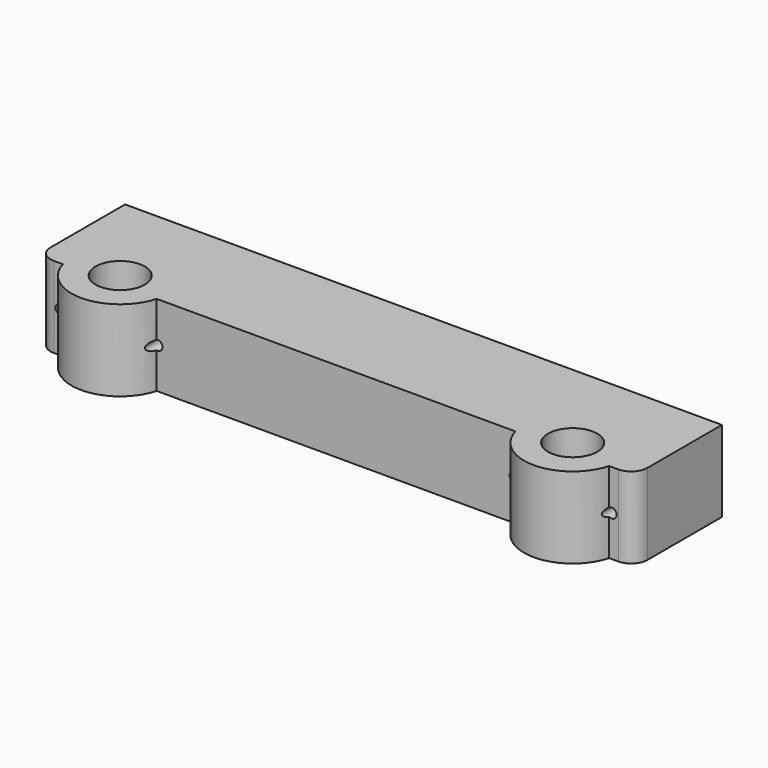
from build123d import *

# Parameters (mm, degrees)
F0_R     = 7.6
F1_DEPTH = 25
F2_R     = 1.5
F3_DEPTH = 44.701
F4_R     = 5


with BuildPart() as f1:
    # F0 (on Top) → F1 (new body)
    with BuildSketch(Plane.XY):
        with BuildLine():
            ThreePointArc((-84.206832, -4), (-69.75, -15), (-55.293168, -4))
            Line((-55.293168, -4), (55.293168, -4))
            ThreePointArc((55.293168, -4), (69.75, -15), (84.206832, -4))
            Line((84.206832, -4), (92, -4))
            Line((92, -4), (92, 29.7))
            Line((92, 29.7), (-92, 29.7))
            Line((-92, 29.7), (-92, -4))
            Line((-92, -4), (-84.206832, -4))
        make_face()
        with Locations((-69.75, 0)):
            Circle(F0_R, mode=Mode.SUBTRACT)
        with Locations((69.75, 0)):
            Circle(F0_R, mode=Mode.SUBTRACT)
    extrude(amount=F1_DEPTH)

    # F2 (on face) → F3 (cut, through all)
    with BuildSketch(Plane(origin=(0, 29.7, 0), x_dir=(-1, 0, 0), z_dir=(0, 1, 0))):
        with Locations((55, 12.5)):
            Circle(F2_R)
        with Locations((-55, 12.5)):
            Circle(F2_R)
        with Locations((85, 12.5)):
            Circle(F2_R)
        with Locations((-85, 12.5)):
            Circle(F2_R)
    extrude(amount=-F3_DEPTH, mode=Mode.SUBTRACT)

    # F4
    f4_edges = [f1.edges().sort_by_distance(p)[0] for p in [
        (-92, -4, 12.5),
        (92, -4, 12.5),
    ]]
    fillet(f4_edges, radius=F4_R)


solid = f1.part
